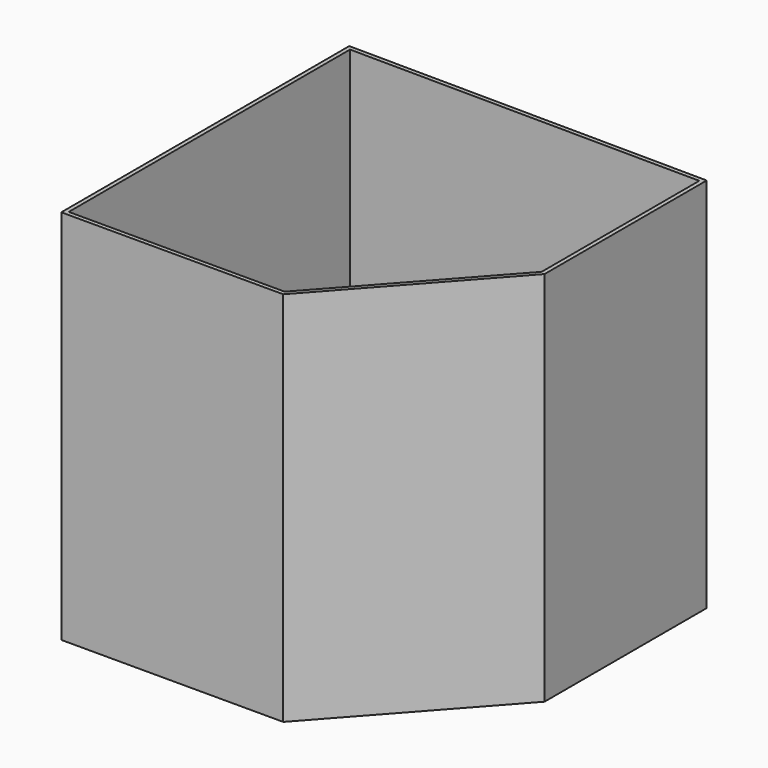
from build123d import *

# Parameters (mm, degrees)
F1_DEPTH = 577.85
F3_DEPTH = 571.5


with BuildPart() as f1:
    # F0 (on Top) → F1 (new body)
    with BuildSketch(Plane.XY):
        Polygon((325.124383, 272.388261), (-227.305525, 277.099817), (-227.305525, -275.350183), (113.35307, -275.350183), (325.124383, -38.793296), align=None)
    extrude(amount=F1_DEPTH)

    # F2 (on face) → F3 (cut)
    with BuildSketch(Plane.XY.offset(577.85)):
        Polygon((-220.955525, -269.000183), (110.514949, -269.000183), (318.774383, -36.366203), (318.774383, 266.092188), (-220.955525, 270.695428), align=None)
    extrude(amount=-F3_DEPTH, mode=Mode.SUBTRACT)


solid = f1.part
